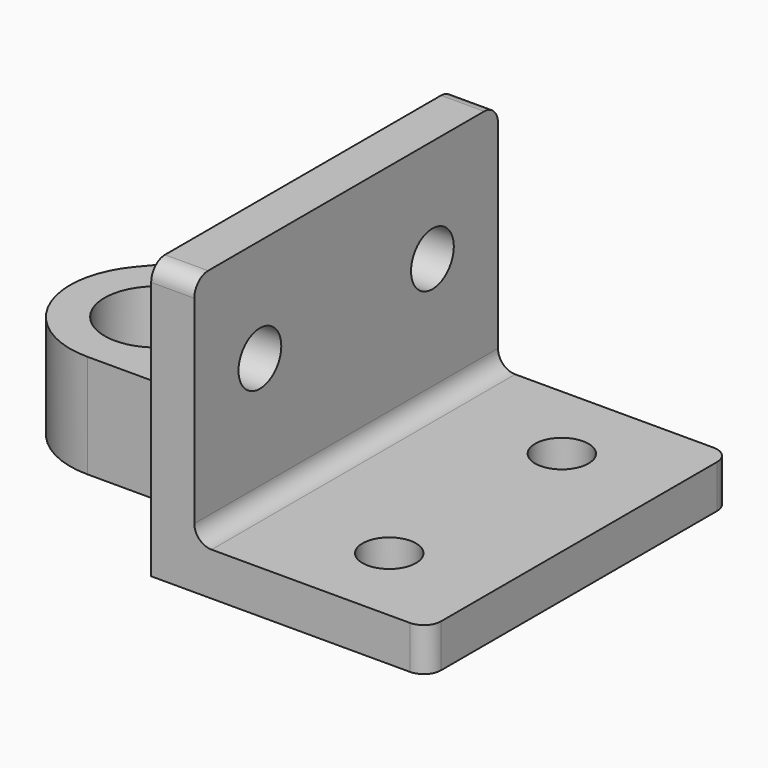
from build123d import *

# Parameters (mm, degrees)
PAD_DEPTH         = 22
SKETCH001_R       = 3.1
POCKET_DEPTH      = 5.001
POCKET_DEPTH_BACK = -27.001
SKETCH002_R       = 3.1
POCKET001_DEPTH   = 5
SKETCH003_R       = 1.6
POCKET002_DEPTH   = 44.001
FILLET_R          = 2
SKETCH004_R       = 1.95
POCKET003_DEPTH   = 5


with BuildPart() as part:
    # Sketch → Pad (new body, symmetric)
    with BuildSketch(Plane.XZ):
        Polygon((0, 27), (0, 0), (27, 0), (27, -5), (-32, -5), (-32, 7), (-5, 7), (-5, 27), align=None)
    extrude(amount=PAD_DEPTH, both=True)

    # Sketch001 → Pocket (cut, two sides)
    with BuildSketch(Plane.XY) as pocket_sk:
        with Locations((15, 12.5)):
            Circle(SKETCH001_R)
        with Locations((15, -12.5)):
            Circle(SKETCH001_R)
        with BuildLine():
            ThreePointArc((-16.803848, -3), (-26.859933, 3.518672), (-17.527864, -4))
            Line((-6, -4), (-17.527864, -4))
            Line((-6, -4), (-6, -10))
            Line((-6, -10), (-22, -10))
            ThreePointArc((-29.660444, 6.427876), (-31.063078, -4.226183), (-22, -10))
            Line((-18.392302, 19.856726), (-29.660444, 6.427876))
            ThreePointArc((-13.796055, 22), (-16.331753, 21.437843), (-18.392302, 19.856726))
            Line((-13.796055, 22), (-13.796055, 28.799225))
            Line((-13.796055, 28.799225), (-40.339119, 28.799225))
            Line((-40.339119, 28.799225), (-40.339119, -28.958258))
            Line((-40.339119, -28.958258), (-5, -28.958258))
            Line((-5, -28.958258), (-5, -3))
            Line((-16.803848, -3), (-5, -3))
        make_face()
    extrude(amount=-POCKET_DEPTH, mode=Mode.SUBTRACT)
    extrude(pocket_sk.sketch, amount=-POCKET_DEPTH_BACK, mode=Mode.SUBTRACT)

    # Sketch002 → Pocket001 (cut)
    with BuildSketch(Plane.YZ):
        with Locations((-12.5, 15)):
            Circle(SKETCH002_R)
        with Locations((12.5, 15)):
            Circle(SKETCH002_R)
    extrude(amount=-POCKET001_DEPTH, mode=Mode.SUBTRACT)

    # Sketch003 (on Face5 of Pocket001) → Pocket002 (cut, through all)
    with BuildSketch(Plane(origin=(0, 22, 0), x_dir=(1, 0, 0), z_dir=(0, 1, 0))):
        with Locations((-11, -1)):
            Circle(SKETCH003_R)
    extrude(amount=-POCKET002_DEPTH, mode=Mode.SUBTRACT)

    # Fillet
    fillet_edges = [part.edges().sort_by_distance(p)[0] for p in [
        (-6, -4, 1),
        (-6, -10, 1),
        (-5, -3, 1),
        (-5, 9.5, 7),
        (27, -22, -2.5),
        (27, 22, -2.5),
        (0, 0, 0),
        (-2.5, -22, 27),
        (-2.5, 22, 27),
    ]]
    fillet(fillet_edges, radius=FILLET_R)

    # Sketch004 (on Face2 of Fillet) → Pocket003 (cut)
    with BuildSketch(Plane(origin=(0, 22, 0), x_dir=(1, 0, 0), z_dir=(0, 1, 0))):
        with Locations((-11, -1)):
            Circle(SKETCH004_R)
    extrude(amount=-POCKET003_DEPTH, mode=Mode.SUBTRACT)


solid = part.part
